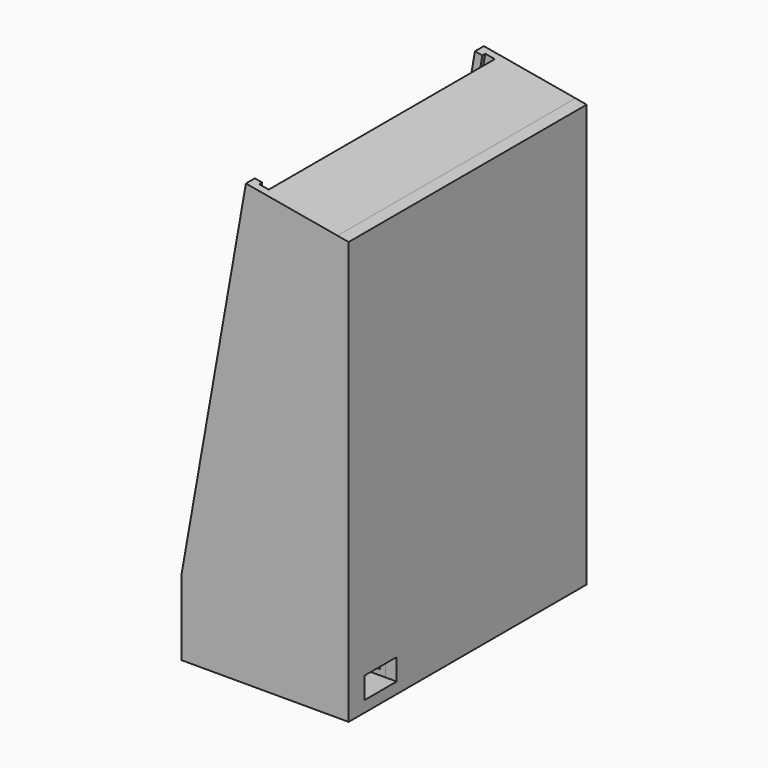
from build123d import *

# Parameters (mm, degrees)
F1_DEPTH      = 40
F2_T          = -3
F3_W          = 2
F3_H          = 74
F4_DEPTH      = 100
F5_DEPTH      = 37
F5_DEPTH_BACK = 37
F6_T          = -1.5
F7_DEPTH      = 40
F8_W          = 10.75
F8_H          = 5.8
F9_DEPTH      = 15


with BuildPart() as f1:
    # F0 (on Front) → F1 (new body, symmetric)
    with BuildSketch(Plane.XZ):
        Polygon((0, 20), (0, 0), (42, 0), (42, 3), (30, 3), (30, 20), (42, 27.1809821724), (20.2907003692, 114.9185834203), (42, 111.0906481632), (42, 114.1369279988), (17.3648177667, 118.4807753012), align=None)
        Polygon((0, 20), (0, 0), (42, 0), (42, 3), (30, 3), (30, 20), (42, 27.1809821724), (20.2907003692, 114.9185834203), (42, 111.0906481632), (42, 114.1369279988), (17.3648177667, 118.4807753012), align=None)
        Polygon((42, 3), (42, 0), (45, 0), (45, 20), (45, 113.6079470567), (42, 114.1369279988), (42, 111.0906481632), (42, 27.1809821724), align=None)
        Polygon((30, 3), (42, 3), (42, 27.1809821724), (30, 20), align=None)
        Polygon((20.2907003692, 114.9185834203), (42, 27.1809821724), (42, 111.0906481632), align=None)
    extrude(amount=F1_DEPTH, both=True)

    # F2 (hollow: no face is removed)
    offset(amount=F2_T, mode=Mode.SUBTRACT)

    # F3 (on face) → F4 (cut)
    with BuildSketch(Plane(origin=(20.7850191999, 0, 117.8777015091), x_dir=(0.984807753, 0, -0.1736481777), z_dir=(0.1736481777, 0, 0.984807753))):
        Polygon((1.1270364467, 38), (-1.4729635533, 38), (-1.4729635533, 37), (-1.4729635533, -37), (-1.4729635533, -38), (1.1270364467, -38), align=None)
        with Locations((-2.4729635533, 0)):
            Rectangle(F3_W, F3_H)
    extrude(amount=-F4_DEPTH, mode=Mode.SUBTRACT)

    # F0 (on Front) → F7 (join, symmetric)
    with BuildSketch(Plane.XZ):
        Polygon((20.2907003692, 114.9185834203), (42, 27.1809821724), (42, 111.0906481632), align=None)
    extrude(amount=F7_DEPTH, both=True)


with BuildPart() as f5:
    # F0 (on Front) → F5 (new body, two sides)
    with BuildSketch(Plane.XZ) as f5_sk:
        Polygon((30, 3), (42, 3), (42, 27.1809821724), (30, 20), align=None)
    extrude(amount=F5_DEPTH)
    extrude(f5_sk.sketch, amount=-F5_DEPTH_BACK)

    # F6
    f6_openings = [f5.faces().sort_by_distance(p)[0] for p in [
        (36, 0, 23.590491),
    ]]
    offset(amount=F6_T, openings=f6_openings)


with BuildPart() as f9_tool:
    # F8 (on face) → F9 (new body, through all)
    with BuildSketch(Plane.YZ.offset(45)):
        with Locations((-29.25, 5.9)):
            Rectangle(F8_W, F8_H)
    extrude(amount=-F9_DEPTH)


with BuildPart() as f1_1:
    add(f1.part)

    # F9: cut by f9_tool
    add(f9_tool.part, mode=Mode.SUBTRACT)


with BuildPart() as f5_1:
    add(f5.part)

    # F9: cut by f9_tool
    add(f9_tool.part, mode=Mode.SUBTRACT)


solid = Compound([f1_1.part, f5_1.part])
